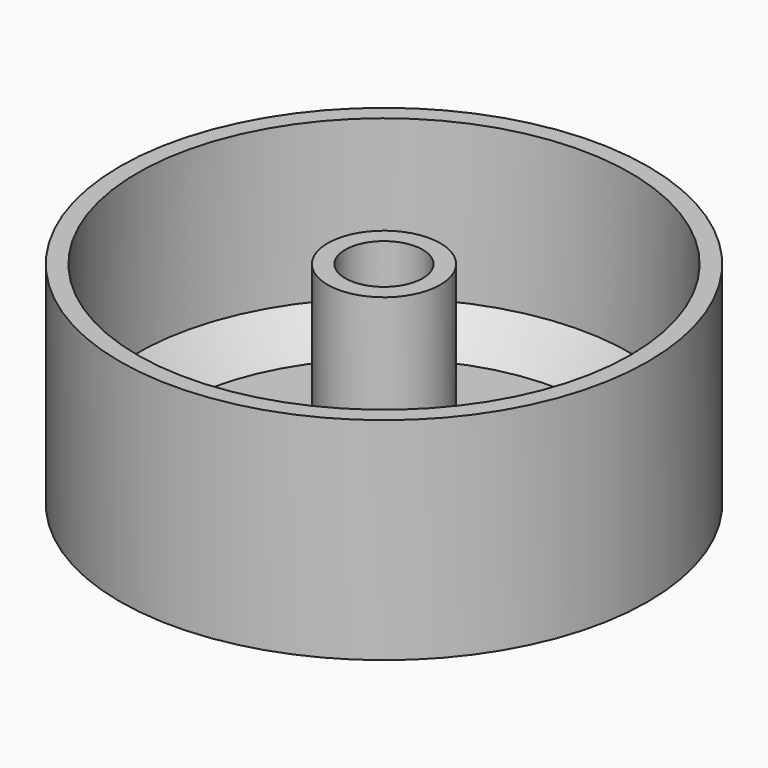
from build123d import *

# Parameters (mm, degrees)
F0_R     = 15
F0_R_2   = 2.2
F1_DEPTH = 12
F2_T     = -1
F3_SIZE  = 2


with BuildPart() as f1:
    # F0 (on Top) → F1 (new body)
    with BuildSketch(Plane.XY):
        Circle(F0_R)
        Circle(F0_R_2, mode=Mode.SUBTRACT)
    extrude(amount=F1_DEPTH)

    # F2
    f2_openings = [f1.faces().sort_by_distance(p)[0] for p in [
        (-14.575736, 0, 12),
    ]]
    offset(amount=F2_T, openings=f2_openings)

    # F3
    f3_edges = [f1.edges().sort_by_distance(p)[0] for p in [
        (-14, 0, 1),
        (-3.2, 0, 1),
    ]]
    chamfer(f3_edges, length=F3_SIZE)


solid = f1.part
